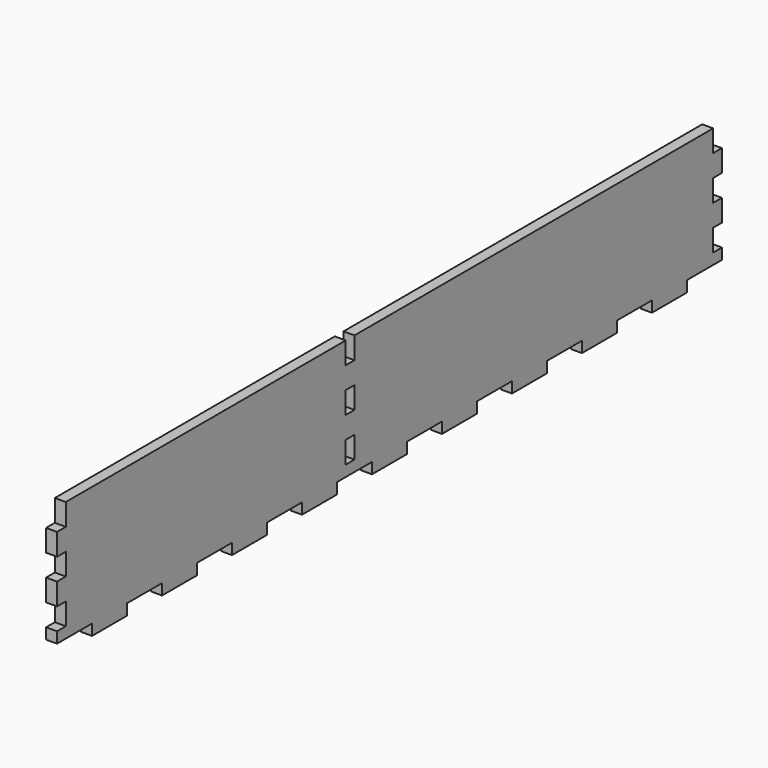
from build123d import *

# Parameters (mm, degrees)
F0_W     = 482.6
F0_H     = 76.2
F1_DEPTH = 6.35
F2_W     = 25.4
F2_H     = 6.35
F3_DEPTH = 6.35
F4_W     = 6.35
F4_H     = 12.7
F5_DEPTH = 6.35


with BuildPart() as f1:
    # F0 (on Right) → F1 (new body)
    with BuildSketch(Plane.YZ):
        Rectangle(F0_W, F0_H)
    extrude(amount=F1_DEPTH)

    # F2 (on face) → F3 (cut, through all)
    with BuildSketch(Plane.YZ.offset(6.35)):
        with Locations((-228.6, -34.925)):
            Rectangle(F2_W, F2_H)
        with Locations((-177.8, -34.925)):
            Rectangle(F2_W, F2_H)
        with Locations((-127, -34.925)):
            Rectangle(F2_W, F2_H)
        with Locations((-76.2, -34.925)):
            Rectangle(F2_W, F2_H)
        with Locations((-25.4, -34.925)):
            Rectangle(F2_W, F2_H)
        with Locations((25.4, -34.925)):
            Rectangle(F2_W, F2_H)
        with Locations((76.2, -34.925)):
            Rectangle(F2_W, F2_H)
        with Locations((127, -34.925)):
            Rectangle(F2_W, F2_H)
        with Locations((177.8, -34.925)):
            Rectangle(F2_W, F2_H)
        with Locations((228.6, -34.925)):
            Rectangle(F2_W, F2_H)
    extrude(amount=-F3_DEPTH, mode=Mode.SUBTRACT)

    # F4 (on face) → F5 (cut, through all)
    with BuildSketch(Plane.YZ.offset(6.35)):
        with Locations((-238.125, 31.75)):
            Rectangle(F4_W, F4_H)
        with Locations((-238.125, 6.35)):
            Rectangle(F4_W, F4_H)
        with Locations((-238.125, -19.05)):
            Rectangle(F4_W, F4_H)
        with Locations((-28.575, 31.75)):
            Rectangle(F4_W, F4_H)
        with Locations((-28.575, 6.35)):
            Rectangle(F4_W, F4_H)
        with Locations((-28.575, -19.05)):
            Rectangle(F4_W, F4_H)
        with Locations((238.125, 31.75)):
            Rectangle(F4_W, F4_H)
        with Locations((238.125, 6.35)):
            Rectangle(F4_W, F4_H)
        with Locations((238.125, -19.05)):
            Rectangle(F4_W, F4_H)
    extrude(amount=-F5_DEPTH, mode=Mode.SUBTRACT)


solid = f1.part
